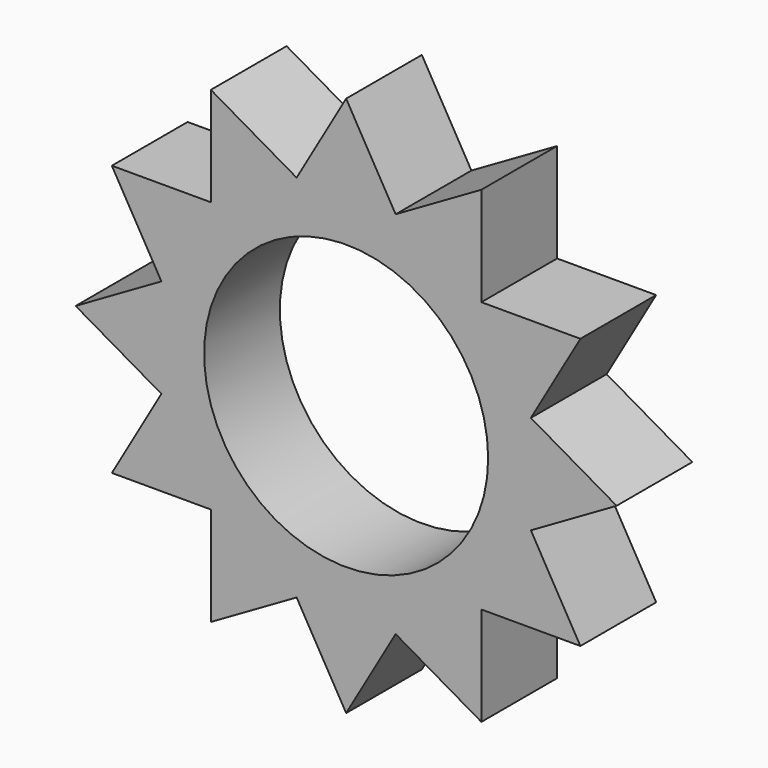
from build123d import *

# Parameters (mm, degrees)
F0_R     = 38.1
F1_DEPTH = 25.4


with BuildPart() as f1:
    # F0 (on Front) → F1 (new body)
    with BuildSketch(Plane.XZ):
        with BuildLine():
            ThreePointArc((49.1988245643, 12.6536817364), (50.3981164721, 6.3772922205), (50.8, 0))
            ThreePointArc((50.8, 0), (50.3981164721, -6.3772922205), (49.1988245643, -12.6536817364))
            Line((49.1988245643, -12.6536817364), (49.5602090261, -13.2796179853))
            Line((49.5602090261, -13.2796179853), (72.5611820817, 0))
            Line((72.5611820817, 0), (49.5602090261, 13.2796179853))
            Line((49.5602090261, 13.2796179853), (49.1988245643, 12.6536817364))
        make_face()
        with BuildLine():
            ThreePointArc((48.9342727773, 13.641002447), (49.0690319755, 13.1480074912), (49.1988245643, 12.6536817364))
            Line((49.1988245643, 12.6536817364), (49.5602090261, 13.2796179853))
            Line((49.5602090261, 13.2796179853), (48.9342727773, 13.641002447))
        make_face()
        with BuildLine():
            Line((49.5602090261, -13.2796179853), (49.1988245643, -12.6536817364))
            ThreePointArc((49.1988245643, -12.6536817364), (49.0690319755, -13.1480074912), (48.9342727773, -13.641002447))
            Line((48.9342727773, -13.641002447), (49.5602090261, -13.2796179853))
        make_face()
        with BuildLine():
            ThreePointArc((36.2805910408, 35.5578221173), (43.9940905122, 25.4), (48.9342727773, 13.641002447))
            Line((48.9342727773, 13.641002447), (49.5602090261, 13.2796179853))
            Line((49.5602090261, 13.2796179853), (62.8398270114, 36.2805910408))
            Line((62.8398270114, 36.2805910408), (36.2805910408, 36.2805910408))
            Line((36.2805910408, 36.2805910408), (36.2805910408, 35.5578221173))
        make_face()
        with BuildLine():
            Line((49.5602090261, -13.2796179853), (48.9342727773, -13.641002447))
            ThreePointArc((48.9342727773, -13.641002447), (43.9940905122, -25.4), (36.2805910408, -35.5578221173))
            Line((36.2805910408, -35.5578221173), (36.2805910408, -36.2805910408))
            Line((36.2805910408, -36.2805910408), (62.8398270114, -36.2805910408))
            Line((62.8398270114, -36.2805910408), (49.5602090261, -13.2796179853))
        make_face()
        with BuildLine():
            ThreePointArc((35.5578221173, 36.2805910408), (35.9210244843, 35.9210244843), (36.2805910408, 35.5578221173))
            Line((36.2805910408, 35.5578221173), (36.2805910408, 36.2805910408))
            Line((36.2805910408, 36.2805910408), (35.5578221173, 36.2805910408))
        make_face()
        with BuildLine():
            Line((36.2805910408, -36.2805910408), (36.2805910408, -35.5578221173))
            ThreePointArc((36.2805910408, -35.5578221173), (35.9210244843, -35.9210244843), (35.5578221173, -36.2805910408))
            Line((35.5578221173, -36.2805910408), (36.2805910408, -36.2805910408))
        make_face()
        with BuildLine():
            ThreePointArc((13.641002447, 48.9342727773), (25.4, 43.9940905122), (35.5578221173, 36.2805910408))
            Line((35.5578221173, 36.2805910408), (36.2805910408, 36.2805910408))
            Line((36.2805910408, 36.2805910408), (36.2805910408, 62.8398270114))
            Line((36.2805910408, 62.8398270114), (13.2796179853, 49.5602090261))
            Line((13.2796179853, 49.5602090261), (13.641002447, 48.9342727773))
        make_face()
        with BuildLine():
            Line((36.2805910408, -36.2805910408), (35.5578221173, -36.2805910408))
            ThreePointArc((35.5578221173, -36.2805910408), (25.4, -43.9940905122), (13.641002447, -48.9342727773))
            Line((13.641002447, -48.9342727773), (13.2796179853, -49.5602090261))
            Line((13.2796179853, -49.5602090261), (36.2805910408, -62.8398270114))
            Line((36.2805910408, -62.8398270114), (36.2805910408, -36.2805910408))
        make_face()
        with BuildLine():
            ThreePointArc((12.6536817364, 49.1988245643), (13.1480074912, 49.0690319755), (13.641002447, 48.9342727773))
            Line((13.641002447, 48.9342727773), (13.2796179853, 49.5602090261))
            Line((13.2796179853, 49.5602090261), (12.6536817364, 49.1988245643))
        make_face()
        with BuildLine():
            Line((13.2796179853, -49.5602090261), (13.641002447, -48.9342727773))
            ThreePointArc((13.641002447, -48.9342727773), (13.1480074912, -49.0690319755), (12.6536817364, -49.1988245643))
            Line((12.6536817364, -49.1988245643), (13.2796179853, -49.5602090261))
        make_face()
        with BuildLine():
            ThreePointArc((-12.6536817364, 49.1988245643), (0, 50.8), (12.6536817364, 49.1988245643))
            Line((12.6536817364, 49.1988245643), (13.2796179853, 49.5602090261))
            Line((13.2796179853, 49.5602090261), (0, 72.5611820817))
            Line((0, 72.5611820817), (-13.2796179853, 49.5602090261))
            Line((-13.2796179853, 49.5602090261), (-12.6536817364, 49.1988245643))
        make_face()
        with BuildLine():
            Line((13.2796179853, -49.5602090261), (12.6536817364, -49.1988245643))
            ThreePointArc((12.6536817364, -49.1988245643), (0, -50.8), (-12.6536817364, -49.1988245643))
            Line((-12.6536817364, -49.1988245643), (-13.2796179853, -49.5602090261))
            Line((-13.2796179853, -49.5602090261), (0, -72.5611820817))
            Line((0, -72.5611820817), (13.2796179853, -49.5602090261))
        make_face()
        with BuildLine():
            ThreePointArc((-13.641002447, 48.9342727773), (-13.1480074912, 49.0690319755), (-12.6536817364, 49.1988245643))
            Line((-12.6536817364, 49.1988245643), (-13.2796179853, 49.5602090261))
            Line((-13.2796179853, 49.5602090261), (-13.641002447, 48.9342727773))
        make_face()
        with BuildLine():
            Line((-13.2796179853, -49.5602090261), (-12.6536817364, -49.1988245643))
            ThreePointArc((-12.6536817364, -49.1988245643), (-13.1480074912, -49.0690319755), (-13.641002447, -48.9342727773))
            Line((-13.641002447, -48.9342727773), (-13.2796179853, -49.5602090261))
        make_face()
        with BuildLine():
            ThreePointArc((-35.5578221173, 36.2805910408), (-25.4, 43.9940905122), (-13.641002447, 48.9342727773))
            Line((-13.641002447, 48.9342727773), (-13.2796179853, 49.5602090261))
            Line((-13.2796179853, 49.5602090261), (-36.2805910408, 62.8398270114))
            Line((-36.2805910408, 62.8398270114), (-36.2805910408, 36.2805910408))
            Line((-36.2805910408, 36.2805910408), (-35.5578221173, 36.2805910408))
        make_face()
        with BuildLine():
            Line((-13.2796179853, -49.5602090261), (-13.641002447, -48.9342727773))
            ThreePointArc((-13.641002447, -48.9342727773), (-25.4, -43.9940905122), (-35.5578221173, -36.2805910408))
            Line((-35.5578221173, -36.2805910408), (-36.2805910408, -36.2805910408))
            Line((-36.2805910408, -36.2805910408), (-36.2805910408, -62.8398270114))
            Line((-36.2805910408, -62.8398270114), (-13.2796179853, -49.5602090261))
        make_face()
        with BuildLine():
            ThreePointArc((-36.2805910408, 35.5578221173), (-35.9210244843, 35.9210244843), (-35.5578221173, 36.2805910408))
            Line((-35.5578221173, 36.2805910408), (-36.2805910408, 36.2805910408))
            Line((-36.2805910408, 36.2805910408), (-36.2805910408, 35.5578221173))
        make_face()
        with BuildLine():
            Line((-36.2805910408, -36.2805910408), (-35.5578221173, -36.2805910408))
            ThreePointArc((-35.5578221173, -36.2805910408), (-35.9210244843, -35.9210244843), (-36.2805910408, -35.5578221173))
            Line((-36.2805910408, -35.5578221173), (-36.2805910408, -36.2805910408))
        make_face()
        with BuildLine():
            ThreePointArc((-48.9342727773, 13.641002447), (-43.9940905122, 25.4), (-36.2805910408, 35.5578221173))
            Line((-36.2805910408, 35.5578221173), (-36.2805910408, 36.2805910408))
            Line((-36.2805910408, 36.2805910408), (-62.8398270114, 36.2805910408))
            Line((-62.8398270114, 36.2805910408), (-49.5602090261, 13.2796179853))
            Line((-49.5602090261, 13.2796179853), (-48.9342727773, 13.641002447))
        make_face()
        with BuildLine():
            Line((-36.2805910408, -36.2805910408), (-36.2805910408, -35.5578221173))
            ThreePointArc((-36.2805910408, -35.5578221173), (-43.9940905122, -25.4), (-48.9342727773, -13.641002447))
            Line((-48.9342727773, -13.641002447), (-49.5602090261, -13.2796179853))
            Line((-49.5602090261, -13.2796179853), (-62.8398270114, -36.2805910408))
            Line((-62.8398270114, -36.2805910408), (-36.2805910408, -36.2805910408))
        make_face()
        with BuildLine():
            ThreePointArc((-49.1988245643, 12.6536817364), (-49.0690319755, 13.1480074912), (-48.9342727773, 13.641002447))
            Line((-48.9342727773, 13.641002447), (-49.5602090261, 13.2796179853))
            Line((-49.5602090261, 13.2796179853), (-49.1988245643, 12.6536817364))
        make_face()
        with BuildLine():
            Line((-49.5602090261, -13.2796179853), (-48.9342727773, -13.641002447))
            ThreePointArc((-48.9342727773, -13.641002447), (-49.0690319755, -13.1480074912), (-49.1988245643, -12.6536817364))
            Line((-49.1988245643, -12.6536817364), (-49.5602090261, -13.2796179853))
        make_face()
        with BuildLine():
            ThreePointArc((-49.1988245643, -12.6536817364), (-50.8, 0), (-49.1988245643, 12.6536817364))
            Line((-49.1988245643, 12.6536817364), (-49.5602090261, 13.2796179853))
            Line((-49.5602090261, 13.2796179853), (-72.5611820817, 0))
            Line((-72.5611820817, 0), (-49.5602090261, -13.2796179853))
            Line((-49.5602090261, -13.2796179853), (-49.1988245643, -12.6536817364))
        make_face()
        with BuildLine():
            ThreePointArc((49.1988245643, -12.6536817364), (50.3981164721, -6.3772922205), (50.8, 0))
            ThreePointArc((50.8, 0), (50.3981164721, 6.3772922205), (49.1988245643, 12.6536817364))
            ThreePointArc((49.1988245643, 12.6536817364), (49.0690319755, 13.1480074912), (48.9342727773, 13.641002447))
            ThreePointArc((48.9342727773, 13.641002447), (43.9940905122, 25.4), (36.2805910408, 35.5578221173))
            ThreePointArc((36.2805910408, 35.5578221173), (35.9210244843, 35.9210244843), (35.5578221173, 36.2805910408))
            ThreePointArc((35.5578221173, 36.2805910408), (25.4, 43.9940905122), (13.641002447, 48.9342727773))
            ThreePointArc((13.641002447, 48.9342727773), (13.1480074912, 49.0690319755), (12.6536817364, 49.1988245643))
            ThreePointArc((12.6536817364, 49.1988245643), (0, 50.8), (-12.6536817364, 49.1988245643))
            ThreePointArc((-12.6536817364, 49.1988245643), (-13.1480074912, 49.0690319755), (-13.641002447, 48.9342727773))
            ThreePointArc((-13.641002447, 48.9342727773), (-25.4, 43.9940905122), (-35.5578221173, 36.2805910408))
            ThreePointArc((-35.5578221173, 36.2805910408), (-35.9210244843, 35.9210244843), (-36.2805910408, 35.5578221173))
            ThreePointArc((-36.2805910408, 35.5578221173), (-43.9940905122, 25.4), (-48.9342727773, 13.641002447))
            ThreePointArc((-48.9342727773, 13.641002447), (-49.0690319755, 13.1480074912), (-49.1988245643, 12.6536817364))
            ThreePointArc((-49.1988245643, 12.6536817364), (-50.8, 0), (-49.1988245643, -12.6536817364))
            ThreePointArc((-49.1988245643, -12.6536817364), (-49.0690319755, -13.1480074912), (-48.9342727773, -13.641002447))
            ThreePointArc((-48.9342727773, -13.641002447), (-43.9940905122, -25.4), (-36.2805910408, -35.5578221173))
            ThreePointArc((-36.2805910408, -35.5578221173), (-35.9210244843, -35.9210244843), (-35.5578221173, -36.2805910408))
            ThreePointArc((-35.5578221173, -36.2805910408), (-25.4, -43.9940905122), (-13.641002447, -48.9342727773))
            ThreePointArc((-13.641002447, -48.9342727773), (-13.1480074912, -49.0690319755), (-12.6536817364, -49.1988245643))
            ThreePointArc((-12.6536817364, -49.1988245643), (0, -50.8), (12.6536817364, -49.1988245643))
            ThreePointArc((12.6536817364, -49.1988245643), (13.1480074912, -49.0690319755), (13.641002447, -48.9342727773))
            ThreePointArc((13.641002447, -48.9342727773), (25.4, -43.9940905122), (35.5578221173, -36.2805910408))
            ThreePointArc((35.5578221173, -36.2805910408), (35.9210244843, -35.9210244843), (36.2805910408, -35.5578221173))
            ThreePointArc((36.2805910408, -35.5578221173), (43.9940905122, -25.4), (48.9342727773, -13.641002447))
            ThreePointArc((48.9342727773, -13.641002447), (49.0690319755, -13.1480074912), (49.1988245643, -12.6536817364))
        make_face()
        Circle(F0_R, mode=Mode.SUBTRACT)
    extrude(amount=F1_DEPTH)


solid = f1.part
